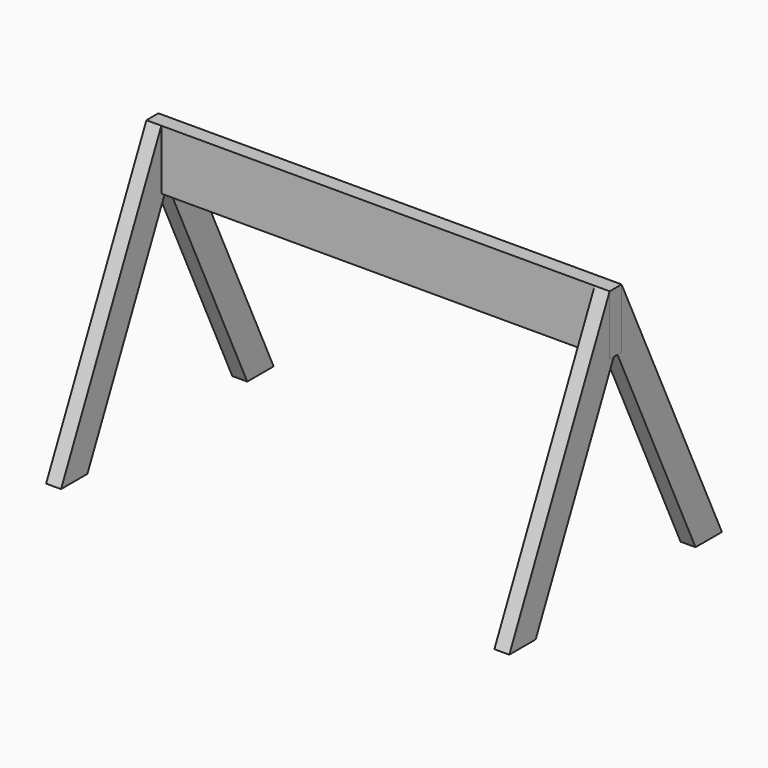
from build123d import *

# Parameters (mm, degrees)
F0_W     = 787.4
F0_H     = 203.2
F1_DEPTH = 25.4
F3_DEPTH = 50.8


with BuildPart() as f1:
    # F0 (on Front) → F1 (new body, symmetric)
    with BuildSketch(Plane.XZ):
        with Locations((393.7, 0)):
            Rectangle(F0_W, F0_H)
    extrude(amount=F1_DEPTH, both=True)

    # F4: F1 across plane


with BuildPart() as f3:
    # F2 (on face) → F3 (new body)
    with BuildSketch(Plane.YZ.offset(787.4)):
        Polygon((-339.688526, -812.8), (-8.05052, -101.6), (-25.4, -101.6), (-25.4, 101.6), (-451.791723, -812.8), align=None)
        Polygon((25.4, 101.6), (25.4, -101.6), (8.05052, -101.6), (339.688526, -812.8), (451.791723, -812.8), align=None)
    extrude(amount=-F3_DEPTH)


with BuildPart() as f1_1:
    add(f1.part)
    add(f1.part.mirror(Plane.YZ))


with BuildPart() as f5_1:
    # F5: instance of F3
    add(f3.part.mirror(Plane.YZ))


solid = Compound([f3.part, f1_1.part, f5_1.part])
